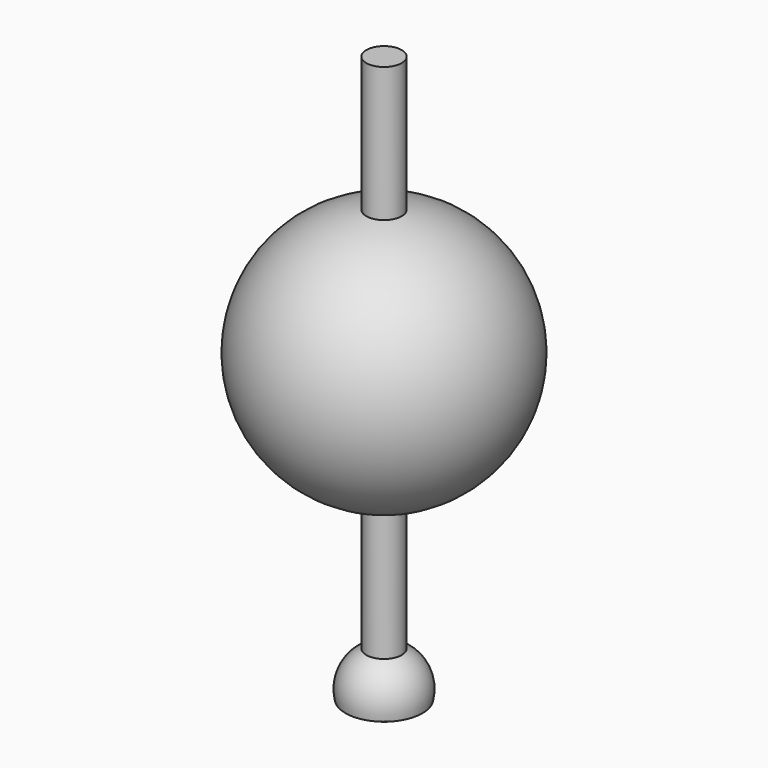
from build123d import *


with BuildPart() as f1:
    # F0 (on Front) → F1 (revolve)
    with BuildSketch(Plane.XZ):
        with BuildLine():
            Line((-1.4498047531, 2.072733763), (-1.4498047531, 22.677482729))
            ThreePointArc((-1.4498047531, 22.677482729), (-10.4038864762, 12.375108246), (-1.4498047531, 2.072733763))
        make_face()
        with BuildLine():
            Line((0, 1.9712217698), (0, 22.7789947222))
            ThreePointArc((0, 22.7789947222), (-0.7266771131, 22.7535856962), (-1.4498047531, 22.677482729))
            Line((-1.4498047531, 22.677482729), (-1.4498047531, 2.072733763))
            ThreePointArc((-1.4498047531, 2.072733763), (-0.7266771131, 1.9966307959), (0, 1.9712217698))
        make_face()
        with BuildLine():
            Line((0, 22.7789947222), (0, 33.7156975647))
            Line((0, 33.7156975647), (-1.4498047531, 33.7156975647))
            Line((-1.4498047531, 33.7156975647), (-1.4498047531, 22.677482729))
            ThreePointArc((-1.4498047531, 22.677482729), (-0.7266771131, 22.7535856962), (0, 22.7789947222))
        make_face()
        with BuildLine():
            Line((0, -8.622668669), (0, 1.9712217698))
            ThreePointArc((0, 1.9712217698), (-0.7266771131, 1.9966307959), (-1.4498047531, 2.072733763))
            Line((-1.4498047531, 2.072733763), (-1.4498047531, -8.9654810727))
            Line((-1.4498047531, -8.9654810727), (0, -8.9654810727))
            Line((0, -8.9654810727), (0, -8.622668669))
        make_face()
        with BuildLine():
            Line((0, -9.734454224), (0, -8.9654810727))
            Line((0, -8.9654810727), (-1.4498047531, -8.9654810727))
            ThreePointArc((-1.4498047531, -8.9654810727), (-2.9327628832, -10.4894340912), (-3.150257736, -12.6046867021))
            Line((-3.150257736, -12.6046867021), (-1.9905301243, -12.6046867021))
            ThreePointArc((-1.9905301243, -12.6046867021), (-1.7464567454, -10.6486127755), (0, -9.734454224))
        make_face()
    revolve(axis=Axis((0, 0, 12.375108246), (0, 0, -1)))


with BuildPart() as f2:
    # F0 (on Front) → F2 (revolve)
    with BuildSketch(Plane.XZ):
        with BuildLine():
            Line((0, -13.2968602702), (0, -12.6046867021))
            Line((0, -12.6046867021), (-1.9905301243, -12.6046867021))
            ThreePointArc((-1.9905301243, -12.6046867021), (-1.8115611012, -12.9712446178), (-1.5658599336, -13.2968602702))
            Line((-1.5658599336, -13.2968602702), (0, -13.2968602702))
        make_face()
        with BuildLine():
            Line((0, -13.9851359187), (0, -13.2968602702))
            Line((0, -13.2968602702), (-1.5658599336, -13.2968602702))
            ThreePointArc((-1.5658599336, -13.2968602702), (-0.8552252189, -13.8054732417), (0, -13.9851359187))
        make_face()
        with BuildLine():
            Line((0, -12.6046867021), (0, -9.734454224))
            ThreePointArc((0, -9.734454224), (-1.7464567454, -10.6486127755), (-1.9905301243, -12.6046867021))
            Line((-1.9905301243, -12.6046867021), (0, -12.6046867021))
        make_face()
    revolve(axis=Axis((0, 0, -11.8597950714), (0, 0, -1)))


solid = Compound([f1.part, f2.part])
